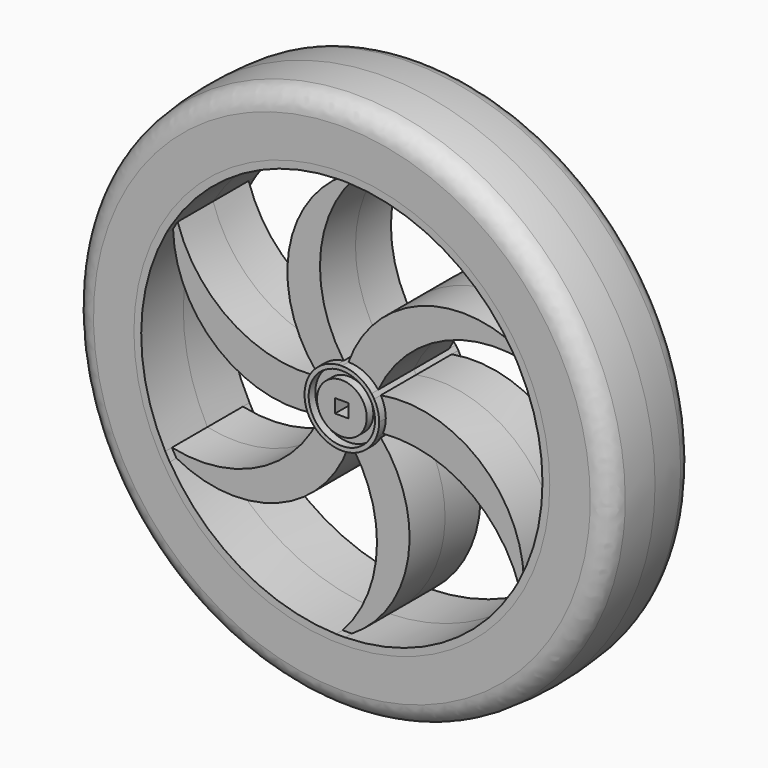
from build123d import *

# Parameters (mm, degrees)
F2_R     = 5
F0_W     = 50.1601435862
F0_H     = 12.7
F4_W     = 3.277
F4_H     = 3.277
F5_DEPTH = 500
F4_R     = 8
F4_R_2   = 6
F6_DEPTH = 2


with BuildPart() as f1:
    # F0 (on Top) → F1 (revolve)
    with BuildSketch(Plane.XY):
        with BuildLine():
            Line((50.1601435862, 0), (65.405, 0))
            ThreePointArc((65.405, 0), (65.0930419333, 6.3804323421), (64.1601435862, 12.7))
            Line((64.1601435862, 12.7), (50.1601435862, 12.7))
            Line((50.1601435862, 12.7), (50.1601435862, 0))
        make_face()
        with BuildLine():
            ThreePointArc((64.1601435862, -12.7), (65.0930419333, -6.3804323422), (65.405, 0))
            Line((65.405, 0), (50.1601435862, 0))
            Line((50.1601435862, 0), (50.1601435862, -12.7))
            Line((50.1601435862, -12.7), (64.1601435862, -12.7))
        make_face()
    revolve(axis=Axis((0, -6.35, 0), (0, -1, 0)))

    # F2
    f2_edges = [f1.edges().sort_by_distance(p)[0] for p in [
        (-64.160144, -12.7, 0),
        (-64.160144, 12.7, 0),
    ]]
    fillet(f2_edges, radius=F2_R)


with BuildPart() as f3:
    # F0 (on Top) → F3 (revolve)
    with BuildSketch(Plane.XY):
        with Locations((25.0800717931, -6.35)):
            Rectangle(F0_W, F0_H)
    revolve(axis=Axis((0, -6.35, 0), (0, -1, 0)))

    # F4 (on face) → F5 (cut)
    with BuildSketch(Plane.XZ.offset(12.7)):
        with BuildLine():
            ThreePointArc((42.3159769035, -23.4983198269), (46.8562524415, -12.1369083017), (48.4026129045, 0))
            ThreePointArc((48.4026129045, 0), (46.9272394774, 11.8594743148), (42.5910617265, 22.9959647981))
            ThreePointArc((42.5910617265, 22.9959647981), (21.7916781398, 20.4523016224), (7.1617054482, 5.4506857434))
            ThreePointArc((7.1617054482, 5.4506857434), (7.493059583, 4.9853844472), (7.7942286341, 4.5))
            ThreePointArc((7.7942286341, 4.5), (31.4853075274, -1.5707588033), (42.3159769035, -23.4983198269))
        make_face()
        with BuildLine():
            ThreePointArc((0, 9), (17.1029707906, 26.481696763), (41.5081303681, 24.897551071))
            ThreePointArc((41.5081303681, 24.897551071), (24.4488869971, 41.7739734834), (1.3804411636, 48.3829238284))
            ThreePointArc((1.3804411636, 48.3829238284), (-6.8163737009, 29.0982976714), (-1.1395795977, 8.9275617243))
            ThreePointArc((-1.1395795977, 8.9275617243), (-0.5709397874, 8.9818721745), (0, 9))
        make_face()
        with BuildLine():
            ThreePointArc((-7.7942286341, 4.5), (-14.3823367368, 28.0524555663), (-0.8078465354, 48.3958708979))
            ThreePointArc((-0.8078465354, 48.3958708979), (-23.9528787551, 42.0603439754), (-41.2106205629, 25.3869590303))
            ThreePointArc((-41.2106205629, 25.3869590303), (-28.6080518407, 8.645996049), (-8.3012850459, 3.4768759809))
            ThreePointArc((-8.3012850459, 3.4768759809), (-8.0639993704, 3.9964877273), (-7.7942286341, 4.5))
        make_face()
        with BuildLine():
            ThreePointArc((-7.7942286341, -4.5), (-31.4853075274, 1.5707588033), (-42.3159769035, 23.4983198269))
            ThreePointArc((-42.3159769035, 23.4983198269), (-48.4017657522, 0.286370492), (-42.5910617265, -22.9959647981))
            ThreePointArc((-42.5910617265, -22.9959647981), (-21.7916781398, -20.4523016224), (-7.1617054482, -5.4506857434))
            ThreePointArc((-7.1617054482, -5.4506857434), (-7.493059583, -4.9853844472), (-7.7942286341, -4.5))
        make_face()
        with BuildLine():
            ThreePointArc((-41.5081303681, -24.897551071), (-24.4488869971, -41.7739734834), (-1.3804411636, -48.3829238284))
            ThreePointArc((-1.3804411636, -48.3829238284), (6.8163737009, -29.0982976714), (1.1395795977, -8.9275617243))
            ThreePointArc((1.1395795977, -8.9275617243), (0.5709397874, -8.9818721745), (0, -9))
            ThreePointArc((0, -9), (-17.1029707906, -26.481696763), (-41.5081303681, -24.897551071))
        make_face()
        with BuildLine():
            ThreePointArc((0.8078465354, -48.3958708979), (23.9528787551, -42.0603439754), (41.2106205629, -25.3869590303))
            ThreePointArc((41.2106205629, -25.3869590303), (28.6080518407, -8.645996049), (8.3012850459, -3.4768759809))
            ThreePointArc((8.3012850459, -3.4768759809), (8.0639993704, -3.9964877273), (7.7942286341, -4.5))
            ThreePointArc((7.7942286341, -4.5), (14.3823367368, -28.0524555663), (0.8078465354, -48.3958708979))
        make_face()
        Rectangle(F4_W, F4_H)
    extrude(amount=-F5_DEPTH, mode=Mode.SUBTRACT)

    # F4 (on face) → F6 (cut)
    with BuildSketch(Plane.XZ.offset(12.7)):
        Circle(F4_R)
        Circle(F4_R_2, mode=Mode.SUBTRACT)
        with BuildLine():
            ThreePointArc((-1.1395795977, 8.9275617243), (-6.8163737009, 29.0982976714), (1.3804411636, 48.3829238284))
            ThreePointArc((1.3804411636, 48.3829238284), (0.286370492, 48.4017657522), (-0.8078465354, 48.3958708979))
            ThreePointArc((-0.8078465354, 48.3958708979), (-14.3823367368, 28.0524555663), (-7.7942286341, 4.5))
            ThreePointArc((-7.7942286341, 4.5), (-4.9853844472, 7.493059583), (-1.1395795977, 8.9275617243))
        make_face()
        with BuildLine():
            ThreePointArc((-8.3012850459, 3.4768759809), (-28.6080518407, 8.645996049), (-41.2106205629, 25.3869590303))
            ThreePointArc((-41.2106205629, 25.3869590303), (-41.7739734834, 24.4488869971), (-42.3159769035, 23.4983198269))
            ThreePointArc((-42.3159769035, 23.4983198269), (-31.4853075274, 1.5707588033), (-7.7942286341, -4.5))
            ThreePointArc((-7.7942286341, -4.5), (-8.9818721745, -0.5709397874), (-8.3012850459, 3.4768759809))
        make_face()
        with BuildLine():
            ThreePointArc((-42.5910617265, -22.9959647981), (-42.0603439754, -23.9528787551), (-41.5081303681, -24.897551071))
            ThreePointArc((-41.5081303681, -24.897551071), (-17.1029707906, -26.481696763), (0, -9))
            ThreePointArc((0, -9), (-3.9964877273, -8.0639993704), (-7.1617054482, -5.4506857434))
            ThreePointArc((-7.1617054482, -5.4506857434), (-21.7916781398, -20.4523016224), (-42.5910617265, -22.9959647981))
        make_face()
        with BuildLine():
            ThreePointArc((-1.3804411636, -48.3829238284), (-0.286370492, -48.4017657522), (0.8078465354, -48.3958708979))
            ThreePointArc((0.8078465354, -48.3958708979), (14.3823367368, -28.0524555663), (7.7942286341, -4.5))
            ThreePointArc((7.7942286341, -4.5), (4.9853844472, -7.493059583), (1.1395795977, -8.9275617243))
            ThreePointArc((1.1395795977, -8.9275617243), (6.8163737009, -29.0982976714), (-1.3804411636, -48.3829238284))
        make_face()
        with BuildLine():
            ThreePointArc((41.2106205629, -25.3869590303), (41.7739734834, -24.4488869971), (42.3159769035, -23.4983198269))
            ThreePointArc((42.3159769035, -23.4983198269), (31.4853075274, -1.5707588033), (7.7942286341, 4.5))
            ThreePointArc((7.7942286341, 4.5), (8.6933324366, 2.3293714059), (9, 0))
            ThreePointArc((9, 0), (8.8235923924, -1.7731940935), (8.3012850459, -3.4768759809))
            ThreePointArc((8.3012850459, -3.4768759809), (28.6080518407, -8.645996049), (41.2106205629, -25.3869590303))
        make_face()
        with BuildLine():
            ThreePointArc((7.1617054482, 5.4506857434), (21.7916781398, 20.4523016224), (42.5910617265, 22.9959647981))
            ThreePointArc((42.5910617265, 22.9959647981), (42.0603439754, 23.9528787551), (41.5081303681, 24.897551071))
            ThreePointArc((41.5081303681, 24.897551071), (17.1029707906, 26.481696763), (0, 9))
            ThreePointArc((0, 9), (3.9964877273, 8.0639993704), (7.1617054482, 5.4506857434))
        make_face()
    extrude(amount=-F6_DEPTH, mode=Mode.SUBTRACT)

    # F7: F3 across plane


with BuildPart() as f3_1:
    add(f3.part)
    add(f3.part.mirror(Plane.XZ))


solid = Compound([f1.part, f3_1.part])
